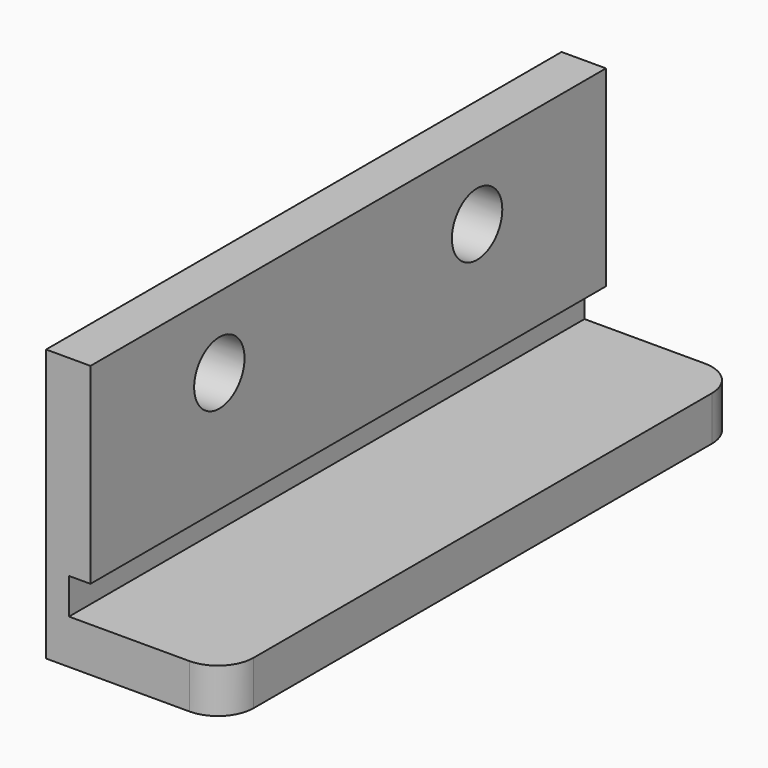
from build123d import *

# Parameters (mm, degrees)
F1_DEPTH = 90
F3_D     = 8.8
F4_R     = 5
F5_W     = 3
F5_H     = 5
F6_DEPTH = 90


with BuildPart() as f1:
    # F0 (on Front) → F1 (new body)
    with BuildSketch(Plane.XZ):
        Polygon((0, 38), (0, 0), (25, 0), (25, 6.2), (6.2, 6.2), (6.2, 38), align=None)
    extrude(amount=F1_DEPTH)

    # F3 (through all)
    with Locations(Plane(origin=(0, 0, 0), x_dir=(0, -1, 0), z_dir=(-1, 0, 0))):
        with Locations((67.5, 28), (22.5, 28)):
            Hole(F3_D / 2)

    # F4
    f4_edges = [f1.edges().sort_by_distance(p)[0] for p in [
        (25, -90, 3.1),
        (25, 0, 3.1),
    ]]
    fillet(f4_edges, radius=F4_R)

    # F5 (on face) → F6 (cut)
    with BuildSketch(Plane.XZ.offset(90)):
        with Locations((4.7, 8.7)):
            Rectangle(F5_W, F5_H)
    extrude(amount=-F6_DEPTH, mode=Mode.SUBTRACT)


solid = f1.part
